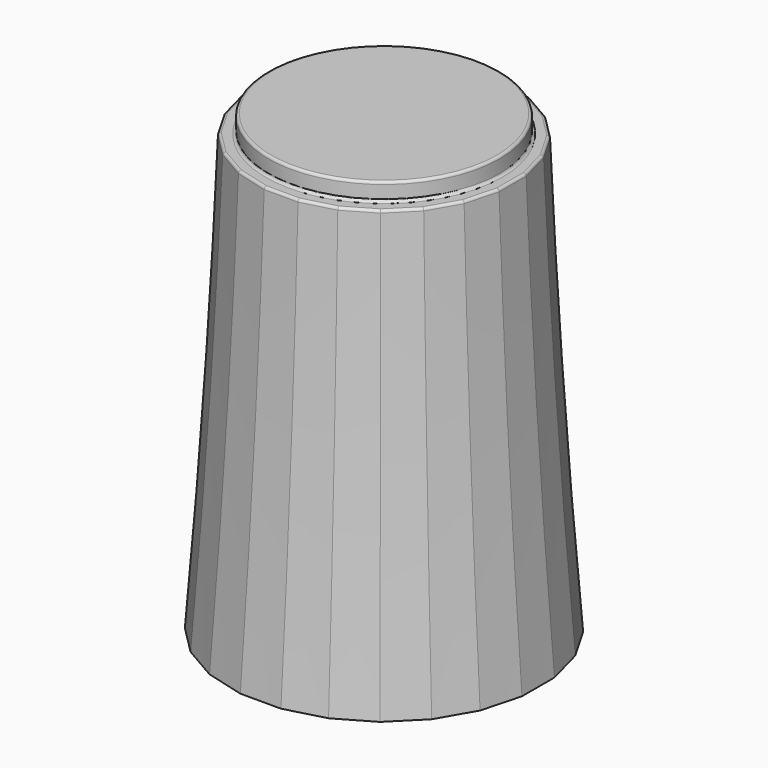
from build123d import *

# Parameters (mm, degrees)
SKETCH099_R     = 4.5
PAD025_DEPTH    = 0.7
SKETCH098_R     = 5
POCKET037_DEPTH = 1
SKETCH096_R     = 4.65
POCKET036_DEPTH = 1
POCKET038_DEPTH = 8
CHAMFER018_SIZE = 1.4
CHAMFER026_SIZE = 0.3
FILLET012_R     = 0.1


with BuildPart() as part:
    # Sketch105 → AdditiveLoft012 section 0
    with BuildSketch(Plane.XY):
        Polygon((-0.789915, 6), (-2.315914, 5.59111), (-3.684086, 4.801195), (-4.801195, 3.684086), (-5.59111, 2.315914), (-6, 0.789915), (-6, -0.789915), (-5.59111, -2.315914), (-4.801195, -3.684086), (-3.684086, -4.801195), (-2.315914, -5.59111), (-0.789915, -6), (0.789915, -6), (2.315914, -5.59111), (3.684086, -4.801195), (4.801195, -3.684086), (5.59111, -2.315914), (6, -0.789915), (6, 0.789915), (5.59111, 2.315914), (4.801195, 3.684086), (3.684086, 4.801195), (2.315914, 5.59111), (0.789915, 6), align=None)
    # Sketch100 → AdditiveLoft012 section 1
    with BuildSketch(Plane.XY.offset(7)):
        Polygon((-0.724089, 5.5), (-2.122921, 5.125184), (-3.377079, 4.401095), (-4.401095, 3.377079), (-5.125184, 2.122921), (-5.5, 0.724089), (-5.5, -0.724089), (-5.125184, -2.122921), (-4.401095, -3.377079), (-3.377079, -4.401095), (-2.122921, -5.125184), (-0.724089, -5.5), (0.724089, -5.5), (2.122921, -5.125184), (3.377079, -4.401095), (4.401095, -3.377079), (5.125184, -2.122921), (5.5, -0.724089), (5.5, 0.724089), (5.125184, 2.122921), (4.401095, 3.377079), (3.377079, 4.401095), (2.122921, 5.125184), (0.724089, 5.5), align=None)
    # Sketch106 → AdditiveLoft012 section 2
    with BuildSketch(Plane.XY.offset(17)):
        Polygon((-4.659258, 1.929928), (-5, 0.658262), (-5, -0.658262), (-4.659258, -1.929928), (-4.000996, -3.070072), (-3.070072, -4.000996), (-1.929928, -4.659258), (-0.658262, -5), (0.658262, -5), (1.929928, -4.659258), (3.070072, -4.000996), (4.000996, -3.070072), (4.659258, -1.929928), (5, -0.658262), (5, 0.658262), (4.659258, 1.929928), (4.000996, 3.070072), (3.070072, 4.000996), (1.929928, 4.659258), (0.658262, 5), (-0.658262, 5), (-1.929928, 4.659258), (-3.070072, 4.000996), (-4.000996, 3.070072), align=None)
    loft()

    # Sketch099 (on Face3 of AdditiveLoft012) → Pad025 (new body)
    with BuildSketch(Plane.XY.offset(17)):
        Circle(SKETCH099_R)
    extrude(amount=PAD025_DEPTH)

    # Sketch098 (on Face1 of Pad025) → Pocket037 (cut)
    with BuildSketch(Plane(origin=(0, 0, 0), x_dir=(1, 0, 0), z_dir=(0, 0, -1))):
        Circle(SKETCH098_R)
    extrude(amount=-POCKET037_DEPTH, mode=Mode.SUBTRACT)

    # Sketch096 (on Face28 of Pocket037) → Pocket036 (cut)
    with BuildSketch(Plane(origin=(0, 0, 1), x_dir=(1, 0, 0), z_dir=(0, 0, -1))):
        Circle(SKETCH096_R)
    extrude(amount=-POCKET036_DEPTH, mode=Mode.SUBTRACT)

    # Sketch097 (on Face32 of Pocket036) → Pocket038 (cut)
    with BuildSketch(Plane(origin=(0, 0, 2), x_dir=(1, 0, 0), z_dir=(0, 0, -1))):
        with BuildLine():
            ThreePointArc((-1.741757, 2.442598), (0, -3), (1.741757, 2.442598))
            Line((-1.741757, 2.442598), (1.741757, 2.442598))
        make_face()
    extrude(amount=-POCKET038_DEPTH, mode=Mode.SUBTRACT)

    # Chamfer018
    chamfer018_edges = [part.edges().sort_by_distance(p)[0] for p in [
        (0, 3, 2),
        (0, -2.442598, 2),
    ]]
    chamfer(chamfer018_edges, length=CHAMFER018_SIZE)

    # Chamfer026
    chamfer026_edges = [part.edges().sort_by_distance(p)[0] for p in [
        (-4.65, 0, 1),
    ]]
    chamfer(chamfer026_edges, length=CHAMFER026_SIZE)

    # Fillet012
    fillet012_edges = [part.edges().sort_by_distance(p)[0] for p in [
        (-4.5, 0, 17.7),
        (-4.829629, 1.294095, 17),
        (-4.330127, 2.5, 17),
        (-5, 0, 17),
        (-3.535534, 3.535534, 17),
        (-4.829629, -1.294095, 17),
        (-2.5, 4.330127, 17),
        (-4.330127, -2.5, 17),
        (-1.294095, 4.829629, 17),
        (-3.535534, -3.535534, 17),
        (0, 5, 17),
        (-2.5, -4.330127, 17),
        (1.294095, 4.829629, 17),
        (-1.294095, -4.829629, 17),
        (2.5, 4.330127, 17),
        (0, -5, 17),
        (3.535534, 3.535534, 17),
        (1.294095, -4.829629, 17),
        (4.330127, 2.5, 17),
        (2.5, -4.330127, 17),
        (4.829629, 1.294095, 17),
        (3.535534, -3.535534, 17),
        (5, 0, 17),
        (4.330127, -2.5, 17),
        (4.829629, -1.294095, 17),
        (-4.5, 0, 17),
    ]]
    fillet(fillet012_edges, radius=FILLET012_R)


solid = part.part
